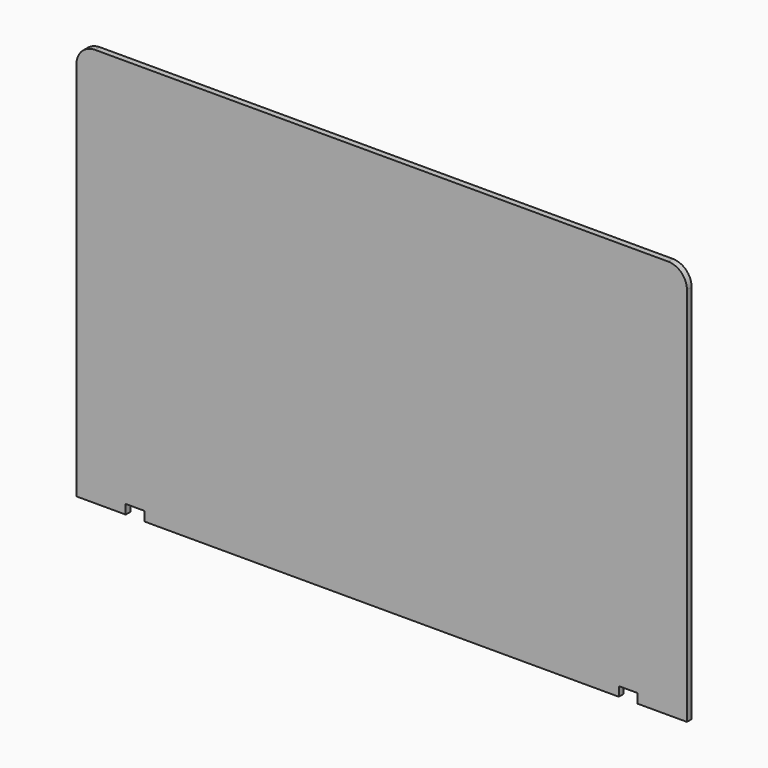
from build123d import *

# Parameters (mm, degrees)
F0_W     = 165.1
F0_H     = 107.95
F1_DEPTH = 1.5875
F2_W     = 5.08
F2_H     = 2.54
F3_DEPTH = 25.4
F4_R     = 5.08


with BuildPart() as f1:
    # F0 (on Front) → F1 (new body)
    with BuildSketch(Plane.XZ):
        with Locations((23.014426, 37.856833)):
            Rectangle(F0_W, F0_H)
    extrude(amount=F1_DEPTH)

    # F2 (on face) → F3 (cut)
    with BuildSketch(Plane.XZ.offset(1.5875)):
        with Locations((-43.660574, -14.848167)):
            Rectangle(F2_W, F2_H)
        with Locations((89.689426, -14.848167)):
            Rectangle(F2_W, F2_H)
    extrude(amount=-F3_DEPTH, mode=Mode.SUBTRACT)

    # F4
    f4_edges = [f1.edges().sort_by_distance(p)[0] for p in [
        (105.564426, -0.79375, 91.831833),
        (-59.535574, -0.79375, 91.831833),
    ]]
    fillet(f4_edges, radius=F4_R)


solid = f1.part
